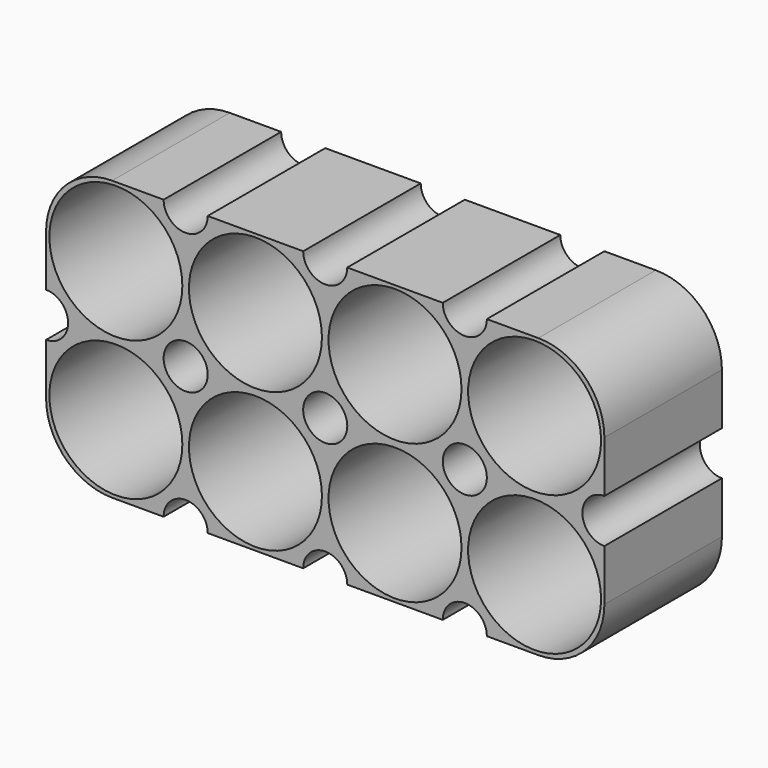
from build123d import *

# Parameters (mm, degrees)
F0_R     = 9.05
F0_R_2   = 3
F1_DEPTH = 20
F2_R     = 9.05
F2_R_2   = 8
F3_DEPTH = 2


with BuildPart() as f1:
    # F0 (on Front) → F1 (new body)
    with BuildSketch(Plane.XZ):
        with BuildLine():
            Line((6.5, 28.5), (-0.5, 28.5))
            ThreePointArc((-0.5, 28.5), (-6.863961, 25.863961), (-9.5, 19.5))
            Line((-9.5, 19.5), (-9.5, 12.5))
            ThreePointArc((-9.5, 12.5), (-6.5, 9.5), (-9.5, 6.5))
            Line((-9.5, 6.5), (-9.5, -0.5))
            ThreePointArc((-9.5, -0.5), (-6.863961, -6.863961), (-0.5, -9.5))
            Line((-0.5, -9.5), (6.5, -9.5))
            ThreePointArc((6.5, -9.5), (9.5, -6.5), (12.5, -9.5))
            Line((12.5, -9.5), (25.5, -9.5))
            ThreePointArc((25.5, -9.5), (28.5, -6.5), (31.5, -9.5))
            Line((31.5, -9.5), (44.5, -9.5))
            ThreePointArc((44.5, -9.5), (47.5, -6.5), (50.5, -9.5))
            Line((50.5, -9.5), (57.5, -9.5))
            ThreePointArc((57.5, -9.5), (63.863961, -6.863961), (66.5, -0.5))
            Line((66.5, -0.5), (66.5, 6.5))
            ThreePointArc((66.5, 6.5), (63.5, 9.5), (66.5, 12.5))
            Line((66.5, 12.5), (66.5, 19.5))
            ThreePointArc((66.5, 19.5), (63.863961, 25.863961), (57.5, 28.5))
            Line((57.5, 28.5), (50.5, 28.5))
            ThreePointArc((50.5, 28.5), (47.5, 25.5), (44.5, 28.5))
            Line((44.5, 28.5), (31.5, 28.5))
            ThreePointArc((31.5, 28.5), (28.5, 25.5), (25.5, 28.5))
            Line((25.5, 28.5), (12.5, 28.5))
            ThreePointArc((12.5, 28.5), (9.5, 25.5), (6.5, 28.5))
        make_face()
        Circle(F0_R, mode=Mode.SUBTRACT)
        with Locations((19, 0)):
            Circle(F0_R, mode=Mode.SUBTRACT)
        with Locations((38, 0)):
            Circle(F0_R, mode=Mode.SUBTRACT)
        with Locations((57, 0)):
            Circle(F0_R, mode=Mode.SUBTRACT)
        with Locations((9.5, 9.5)):
            Circle(F0_R_2, mode=Mode.SUBTRACT)
        with Locations((0, 19)):
            Circle(F0_R, mode=Mode.SUBTRACT)
        with Locations((19, 19)):
            Circle(F0_R, mode=Mode.SUBTRACT)
        with Locations((28.5, 9.5)):
            Circle(F0_R_2, mode=Mode.SUBTRACT)
        with Locations((47.5, 9.5)):
            Circle(F0_R_2, mode=Mode.SUBTRACT)
        with Locations((38, 19)):
            Circle(F0_R, mode=Mode.SUBTRACT)
        with Locations((57, 19)):
            Circle(F0_R, mode=Mode.SUBTRACT)
    extrude(amount=F1_DEPTH)

    # F2 (on face) → F3 (join)
    with BuildSketch(Plane.XZ):
        with Locations((57, 0)):
            Circle(F2_R)
        with Locations((57, 0)):
            Circle(F2_R_2, mode=Mode.SUBTRACT)
        with Locations((57, 19)):
            Circle(F2_R)
        with Locations((57, 19)):
            Circle(F2_R_2, mode=Mode.SUBTRACT)
        with Locations((38, 0)):
            Circle(F2_R)
        with Locations((38, 0)):
            Circle(F2_R_2, mode=Mode.SUBTRACT)
        with Locations((38, 19)):
            Circle(F2_R)
        with Locations((38, 19)):
            Circle(F2_R_2, mode=Mode.SUBTRACT)
        with Locations((19, 0)):
            Circle(F2_R)
        with Locations((19, 0)):
            Circle(F2_R_2, mode=Mode.SUBTRACT)
        with Locations((19, 19)):
            Circle(F2_R)
        with Locations((19, 19)):
            Circle(F2_R_2, mode=Mode.SUBTRACT)
        Circle(F2_R)
        Circle(F2_R_2, mode=Mode.SUBTRACT)
        with Locations((0, 19)):
            Circle(F2_R)
        with Locations((0, 19)):
            Circle(F2_R_2, mode=Mode.SUBTRACT)
    extrude(amount=F3_DEPTH)


solid = f1.part
